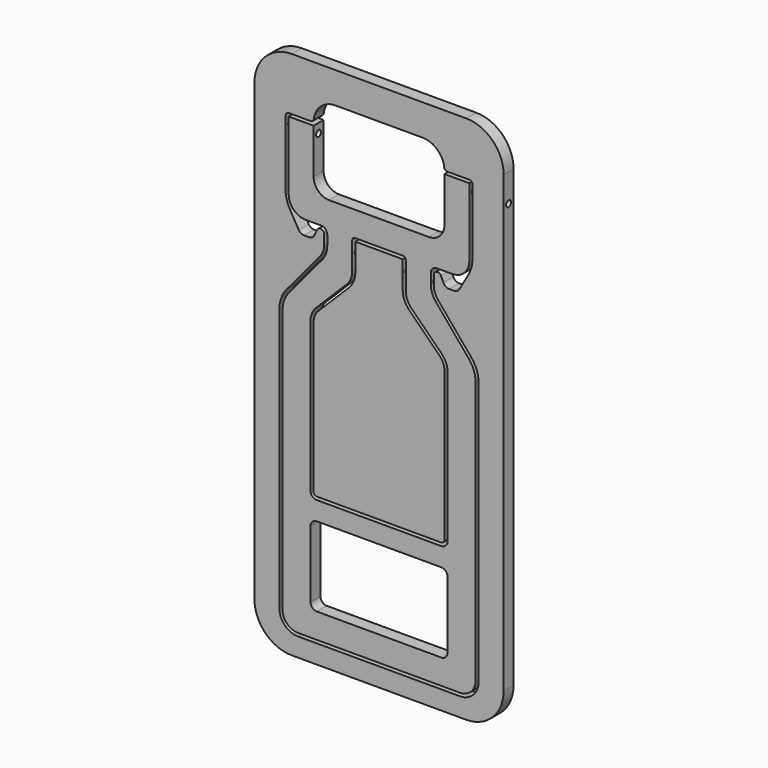
from build123d import *

# Parameters (mm, degrees)
F0_W      = 400
F0_H      = 850
F1_DEPTH  = 20
F2_R      = 60
F4_DEPTH  = 20.001
F5_R      = 50
F6_R      = 10
F7_R      = 30
F8_R      = 50
F9_R      = 5
F11_DEPTH = 20
F13_DEPTH = 25
F15_DEPTH = 20.001
F17_DEPTH = 20
F19_D     = 10
F21_D     = 10
F21_DEPTH = 238.0838139666
F23_D     = 10
F25_D     = 10


with BuildPart() as f1:
    # F0 (on Front) → F1 (new body)
    with BuildSketch(Plane.XZ):
        Rectangle(F0_W, F0_H)
    extrude(amount=F1_DEPTH)

    # F2
    f2_edges = [f1.edges().sort_by_distance(p)[0] for p in [
        (200, -10, 425),
        (-200, -10, 425),
        (-200, -10, -425),
        (200, -10, -425),
    ]]
    fillet(f2_edges, radius=F2_R)

    # F3 (on face) → F4 (cut, through all)
    with BuildSketch(Plane.XZ.offset(20)):
        with BuildLine():
            Line((70, 375), (-70, 375))
            ThreePointArc((-70, 375), (-94.7487373415, 364.7487373415), (-105, 340))
            Line((-105, 340), (-150, 340))
            Line((-150, 340), (-150, 216.4257813839))
            Line((-150, 216.4257813839), (-126.0828139666, 175))
            Line((-126.0828139666, 175), (-106.0828139666, 175))
            Line((-106.0828139666, 175), (-99.5514409332, 189.4686269666))
            ThreePointArc((-99.5514409332, 189.4686269666), (-92.8202296723, 192.8656526406), (-88.0828139666, 187))
            Line((-88.0828139666, 187), (-88.0828139666, 161.4221185446))
            Line((-88.0828139666, 161.4221185446), (-160, 75.71455372))
            Line((-160, 75.71455372), (-160, -365))
            ThreePointArc((-160, -365), (-151.2132034356, -386.2132034356), (-130, -395))
            Line((-130, -395), (130, -395))
            ThreePointArc((130, -395), (151.2132034356, -386.2132034356), (160, -365))
            Line((160, -365), (160, 75.71455372))
            Line((160, 75.71455372), (88.0828139666, 161.4221185446))
            Line((88.0828139666, 161.4221185446), (88.0828139666, 187))
            ThreePointArc((88.0828139666, 187), (92.8202296723, 192.8656526406), (99.5514409332, 189.4686269666))
            Line((99.5514409332, 189.4686269666), (106.0828139666, 175))
            Line((106.0828139666, 175), (126.0828139666, 175))
            Line((126.0828139666, 175), (150, 216.4257813839))
            Line((150, 216.4257813839), (150, 340))
            Line((150, 340), (105, 340))
            ThreePointArc((105, 340), (94.7487373415, 364.7487373415), (70, 375))
        make_face()
    extrude(amount=-F4_DEPTH, mode=Mode.SUBTRACT)

    # F5
    f5_edges = [f1.edges().sort_by_distance(p)[0] for p in [
        (-150, -10, 216.425781),
        (150, -10, 216.425781),
    ]]
    fillet(f5_edges, radius=F5_R)

    # F6
    f6_edges = [f1.edges().sort_by_distance(p)[0] for p in [
        (126.082814, -10, 175),
        (-126.082814, -10, 175),
        (106.082814, -10, 175),
        (-106.082814, -10, 175),
    ]]
    fillet(f6_edges, radius=F6_R)

    # F7
    f7_edges = [f1.edges().sort_by_distance(p)[0] for p in [
        (-88.082814, -10, 161.422119),
        (88.082814, -10, 161.422119),
    ]]
    fillet(f7_edges, radius=F7_R)

    # F8
    f8_edges = [f1.edges().sort_by_distance(p)[0] for p in [
        (-160, -10, 75.714554),
        (160, -10, 75.714554),
    ]]
    fillet(f8_edges, radius=F8_R)

    # F9
    f9_edges = [f1.edges().sort_by_distance(p)[0] for p in [
        (-150, -10, 340),
        (-105, -10, 340),
        (150, -10, 340),
        (105, -10, 340),
    ]]
    fillet(f9_edges, radius=F9_R)

    # F25 (through all)
    with Locations(Plane(origin=(-200, 0, 0), x_dir=(0, -1, 0), z_dir=(-1, 0, 0))):
        with Locations((10, 320)):
            Hole(F25_D / 2)


with BuildPart() as f11:
    # F10 (on Front) → F11 (new body)
    with BuildSketch(Plane.XZ):
        with BuildLine():
            Line((-105, 262.8656526406), (-105, 335))
            Line((-105, 335), (-145, 335))
            Line((-145, 335), (-145, 225.0493870204))
            ThreePointArc((-145, 225.0493870204), (-137.0380685381, 205.8275841024), (-117.8162656202, 197.8656526406))
            Line((-117.8162656202, 197.8656526406), (-93.0828139666, 197.8656526406))
            ThreePointArc((-93.0828139666, 197.8656526406), (-86.0117461547, 194.9367204524), (-83.0828139666, 187.8656526406))
            Line((-83.0828139666, 187.8656526406), (-83.0828139666, 172.3412255726))
            ThreePointArc((-83.0828139666, 172.3412255726), (-85.1935722391, 160.3705205562), (-91.2712584574, 149.8436592335))
            Line((-91.2712584574, 149.8436592335), (-144.4719999404, 86.4414844426))
            ThreePointArc((-144.4719999404, 86.4414844426), (-152.2861679354, 72.9069484564), (-155, 57.5160420067))
            Line((-155, 57.5160420067), (-155, -365))
            ThreePointArc((-155, -365), (-147.6776695297, -382.6776695297), (-130, -390))
            Line((-130, -390), (0, -390))
            Line((0, -390), (130, -390))
            ThreePointArc((130, -390), (147.6776695297, -382.6776695297), (155, -365))
            Line((155, -365), (155, 57.5160420067))
            ThreePointArc((155, 57.5160420067), (152.2861679354, 72.9069484564), (144.4719999404, 86.4414844426))
            Line((144.4719999404, 86.4414844426), (91.2712584574, 149.8436592335))
            ThreePointArc((91.2712584574, 149.8436592335), (85.1935722391, 160.3705205562), (83.0828139666, 172.3412255726))
            Line((83.0828139666, 172.3412255726), (83.0828139666, 187.8656526406))
            ThreePointArc((83.0828139666, 187.8656526406), (86.0117461547, 194.9367204524), (93.0828139666, 197.8656526406))
            Line((93.0828139666, 197.8656526406), (117.8162656202, 197.8656526406))
            ThreePointArc((117.8162656202, 197.8656526406), (137.0380685381, 205.8275841024), (145, 225.0493870204))
            Line((145, 225.0493870204), (145, 335))
            Line((145, 335), (105, 335))
            Line((105, 335), (105, 262.8656526406))
            ThreePointArc((105, 262.8656526406), (97.6776695297, 245.1879831109), (80, 237.8656526406))
            Line((80, 237.8656526406), (0, 237.8656526406))
            Line((0, 237.8656526406), (-80, 237.8656526406))
            ThreePointArc((-80, 237.8656526406), (-97.6776695297, 245.1879831109), (-105, 262.8656526406))
        make_face()
    extrude(amount=F11_DEPTH)

    # F12 (on face) → F13 (cut)
    with BuildSketch(Plane.XZ.offset(20)):
        with BuildLine():
            Line((38.0828139666, 197.8656526406), (-38.0828139666, 197.8656526406))
            ThreePointArc((-38.0828139666, 197.8656526406), (-41.6183478725, 196.4011865465), (-43.0828139666, 192.8656526406))
            Line((-43.0828139666, 192.8656526406), (-43.0828139666, 149.2860417825))
            ThreePointArc((-43.0828139666, 149.2860417825), (-45.3664279913, 137.8055388115), (-51.869610531, 128.0728383469))
            Line((-51.869610531, 128.0728383469), (-101.2132034356, 78.7292454423))
            ThreePointArc((-101.2132034356, 78.7292454423), (-107.7163859753, 68.9965449777), (-110, 57.5160420067))
            Line((-110, 57.5160420067), (-110, -182.4839579933))
            ThreePointArc((-110, -182.4839579933), (-107.0710678119, -189.5550258052), (-100, -192.4839579933))
            Line((-100, -192.4839579933), (0, -192.4839579933))
            Line((0, -192.4839579933), (100, -192.4839579933))
            ThreePointArc((100, -192.4839579933), (107.0710678119, -189.5550258052), (110, -182.4839579933))
            Line((110, -182.4839579933), (110, 57.5160420067))
            ThreePointArc((110, 57.5160420067), (107.7163859753, 68.9965449777), (101.2132034356, 78.7292454423))
            Line((101.2132034356, 78.7292454423), (51.869610531, 128.0728383469))
            ThreePointArc((51.869610531, 128.0728383469), (45.3664279913, 137.8055388115), (43.0828139666, 149.2860417825))
            Line((43.0828139666, 149.2860417825), (43.0828139666, 192.8656526406))
            ThreePointArc((43.0828139666, 192.8656526406), (41.6183478725, 196.4011865465), (38.0828139666, 197.8656526406))
        make_face()
    extrude(amount=-F13_DEPTH, mode=Mode.SUBTRACT)

    # F14 (on face) → F15 (cut, through all)
    with BuildSketch(Plane.XZ.offset(20)):
        with BuildLine():
            Line((0, -222.4839579933), (-100, -222.4839579933))
            ThreePointArc((-100, -222.4839579933), (-107.0710678119, -225.4128901814), (-110, -232.4839579933))
            Line((-110, -232.4839579933), (-110, -340))
            ThreePointArc((-110, -340), (-107.0710678119, -347.0710678119), (-100, -350))
            Line((-100, -350), (0, -350))
            Line((0, -350), (0, -222.4839579933))
        make_face()
        with BuildLine():
            Line((100, -222.4839579933), (0, -222.4839579933))
            Line((0, -222.4839579933), (0, -350))
            Line((0, -350), (100, -350))
            ThreePointArc((100, -350), (107.0710678119, -347.0710678119), (110, -340))
            Line((110, -340), (110, -232.4839579933))
            ThreePointArc((110, -232.4839579933), (107.0710678119, -225.4128901814), (100, -222.4839579933))
        make_face()
    extrude(amount=-F15_DEPTH, mode=Mode.SUBTRACT)

    # F21 (through all, one way)
    with BuildSketch(Plane(origin=(-83.0828139666, 0, 0), x_dir=(0, -1, 0), z_dir=(-1, 0, 0))):
        with Locations((10, 172.8656526253)):
            Circle(F21_D / 2)
    extrude(amount=-F21_DEPTH, mode=Mode.SUBTRACT)

    # F23 (through all)
    with Locations(Plane(origin=(-145, 0, 0), x_dir=(0, -1, 0), z_dir=(-1, 0, 0))):
        with Locations((10, 320)):
            Hole(F23_D / 2)


with BuildPart() as f17:
    # F16 (on Front) → F17 (new body)
    with BuildSketch(Plane.XZ):
        with BuildLine():
            ThreePointArc((-38.0828139513, 149.2860417825), (-40.7470303146, 135.8921216438), (-48.3340766143, 124.5373044301))
            Line((-48.3340766143, 124.5373044301), (-97.6776695188, 75.1937115255))
            ThreePointArc((-97.6776695188, 75.1937115255), (-103.0969882986, 67.08312781), (-104.9999999847, 57.5160420067))
            Line((-104.9999999847, 57.5160420067), (-104.9999999847, -182.4839579933))
            ThreePointArc((-104.9999999847, -182.4839579933), (-103.5355338951, -186.0194918884), (-100, -187.483957978))
            Line((-100, -187.483957978), (100, -187.483957978))
            ThreePointArc((100, -187.483957978), (103.5355338951, -186.0194918884), (104.9999999847, -182.4839579933))
            Line((104.9999999847, -182.4839579933), (104.9999999847, 57.5160420067))
            ThreePointArc((104.9999999847, 57.5160420067), (103.0969882986, 67.08312781), (97.6776695188, 75.1937115255))
            Line((97.6776695188, 75.1937115255), (48.3340766143, 124.5373044301))
            ThreePointArc((48.3340766143, 124.5373044301), (40.7470303146, 135.8921216438), (38.0828139513, 149.2860417825))
            Line((38.0828139513, 149.2860417825), (38.0828139513, 192.8656526253))
            Line((38.0828139513, 192.8656526253), (-38.0828139513, 192.8656526253))
            Line((-38.0828139513, 192.8656526253), (-38.0828139513, 149.2860417825))
        make_face()
    extrude(amount=F17_DEPTH)

    # F19 (through all)
    with Locations(Plane.YZ.offset(38.0828139513)):
        with Locations((-10, 172.8656526253)):
            Hole(F19_D / 2)


solid = Compound([f1.part, f11.part, f17.part])
